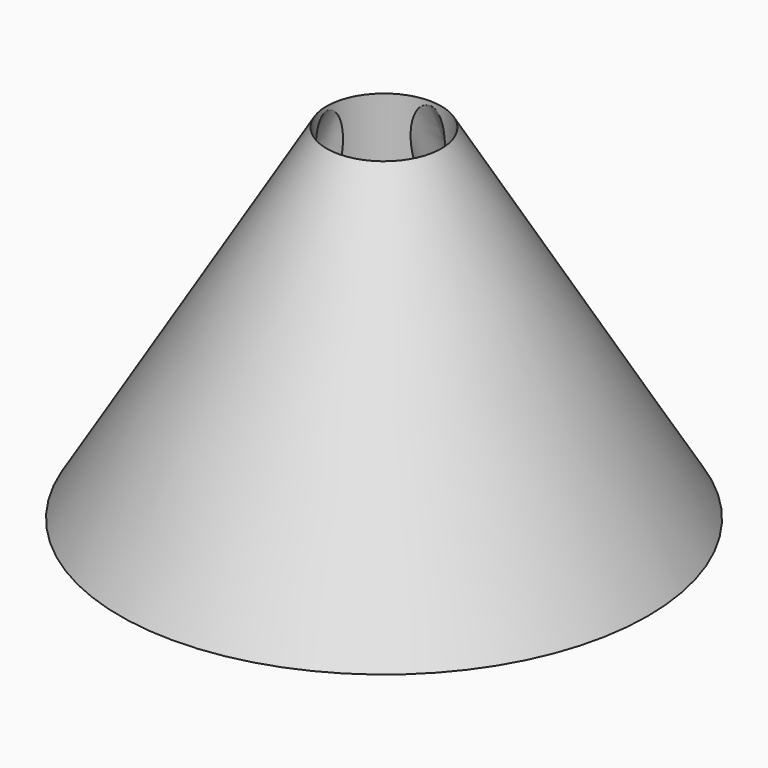
from build123d import *

# Parameters (mm, degrees)
F2_R     = 0.3
F4_COUNT = 4


with BuildPart() as f1:
    # F0 (on Front) → F1 (revolve)
    with BuildSketch(Plane.XZ):
        Polygon((-1, 0), (-1, 6), (-3.833026858, 0), align=None)
        Polygon((-3.833026858, 0), (-1, 6), (-4.6, 0), align=None)
    revolve(axis=Axis((0, 0, 3), (0, 0, -1)))

    # F3: sweep along a path in F0
    with BuildLine(Plane.XZ) as f3_path:
        Line((-3.833026858, 0), (-1, 6))
    # F2 (on face) → F3 (sweep, cut)
    with BuildSketch(Plane(origin=(0, 0, 0), x_dir=(1, 0, 0), z_dir=(0, 0, -1))):
        with Locations((-3.5, 0)):
            Circle(F2_R)
    f3 = sweep(path=f3_path.line, mode=Mode.SUBTRACT)

    # F4: F3 ×4 about axis
    f4_axis = Axis((0, 0, 0), (0, 0, -1))
    for i in range(1, F4_COUNT):
        add(f3.rotate(f4_axis, i * 360 / F4_COUNT), mode=Mode.SUBTRACT)


solid = f1.part
